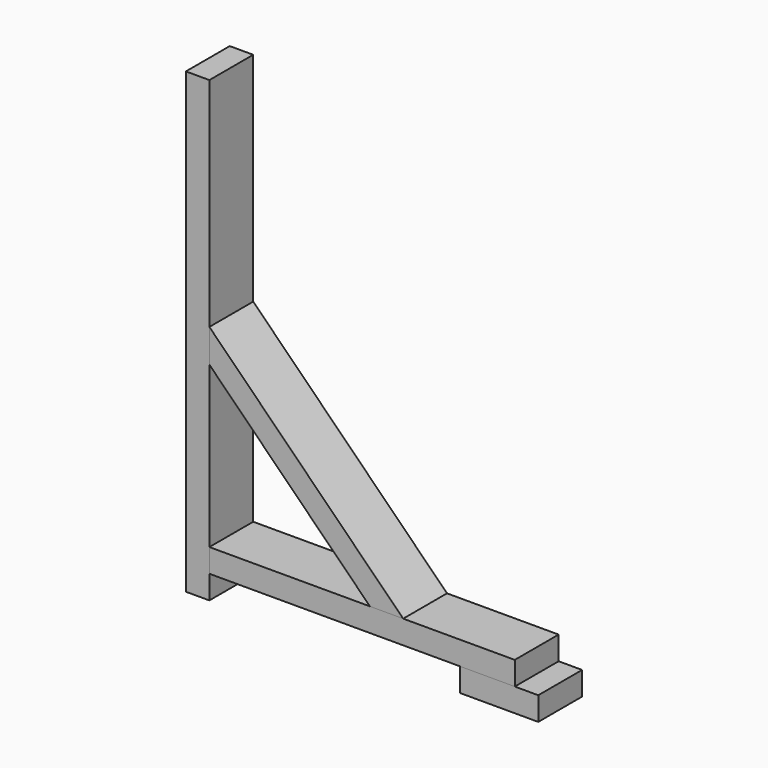
from build123d import *

# Parameters (mm, degrees)
F0_W     = 38.1
F0_H     = 88.9
F1_DEPTH = 742.95
F3_DEPTH = 88.9
F4_DEPTH = 88.9
F5_DEPTH = 88.9


with BuildPart() as f1:
    # F0 (on Top) → F1 (new body)
    with BuildSketch(Plane.XY):
        Rectangle(F0_W, F0_H)
    extrude(amount=F1_DEPTH)


with BuildPart() as f3:
    # F2 (on face) → F3 (new body)
    with BuildSketch(Plane.XZ.offset(44.45)):
        Polygon((333.358964, 76.2), (279.477428, 76.2), (19.05, 76.2), (19.05, 38.1), (425.45, 38.1), (514.35, 38.1), (514.35, 76.2), align=None)
    extrude(amount=-F3_DEPTH)


with BuildPart() as f4:
    # F2 (on face) → F4 (new body)
    with BuildSketch(Plane.XZ.offset(44.45)):
        Polygon((19.05, 363.568196), (19.05, 336.627428), (279.477428, 76.2), (333.358964, 76.2), (19.05, 390.508964), align=None)
    extrude(amount=-F4_DEPTH)


with BuildPart() as f5:
    # F2 (on face) → F5 (new body)
    with BuildSketch(Plane.XZ.offset(44.45)):
        Polygon((514.35, 38.1), (425.45, 38.1), (425.45, 0), (552.45, 0), (552.45, 38.1), align=None)
    extrude(amount=-F5_DEPTH)


solid = Compound([f1.part, f3.part, f4.part, f5.part])
